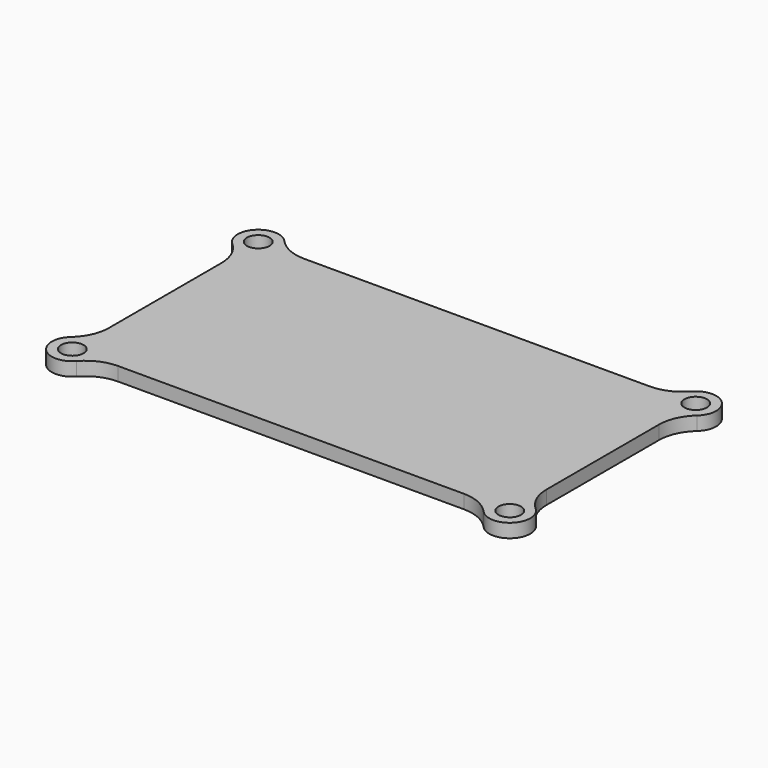
from build123d import *

# Parameters (mm, degrees)
SKETCH_R  = 1.65
PAD_DEPTH = 2
FILLET_R  = 6


with BuildPart() as part:
    # Sketch → Pad (new body)
    with BuildSketch(Plane.XY):
        with BuildLine():
            Line((-32, 14), (-32, -14))
            ThreePointArc((-32, -14), (-34.12132, -19.12132), (-29, -17))
            Line((-29, -17), (29, -17))
            ThreePointArc((29, -17), (34.12132, -19.12132), (32, -14))
            Line((32, -14), (32, 14))
            ThreePointArc((32, 14), (34.12132, 19.12132), (29, 17))
            Line((29, 17), (-29, 17))
            ThreePointArc((-29, 17), (-34.12132, 19.12132), (-32, 14))
        make_face()
        with Locations((-32, 17)):
            Circle(SKETCH_R, mode=Mode.SUBTRACT)
        with Locations((-32, -17)):
            Circle(SKETCH_R, mode=Mode.SUBTRACT)
        with Locations((32, -17)):
            Circle(SKETCH_R, mode=Mode.SUBTRACT)
        with Locations((32, 17)):
            Circle(SKETCH_R, mode=Mode.SUBTRACT)
    extrude(amount=PAD_DEPTH)

    # Fillet
    fillet_edges = [part.edges().sort_by_distance(p)[0] for p in [
        (-29, -17, 1),
        (29, -17, 1),
        (32, -14, 1),
        (32, 14, 1),
        (29, 17, 1),
        (-29, 17, 1),
        (-32, 14, 1),
        (-32, -14, 1),
    ]]
    fillet(fillet_edges, radius=FILLET_R)


solid = part.part
